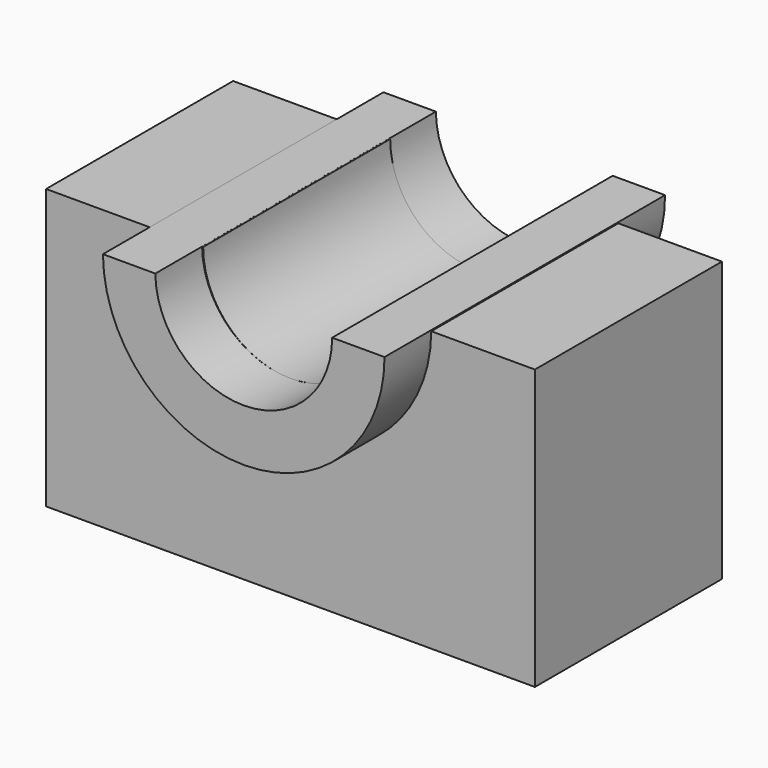
from build123d import *

# Parameters (mm, degrees)
F0_W     = 106.2181815505
F0_H     = 60.7290938497
F1_DEPTH = 25.4
F3_DEPTH = 38.1
F5_DEPTH = 152.4


with BuildPart() as f1:
    # F0 (on Front) → F1 (new body, symmetric)
    with BuildSketch(Plane.XZ):
        Rectangle(F0_W, F0_H)
    extrude(amount=F1_DEPTH, both=True)

    # F2 (on Front) → F3 (join, symmetric)
    with BuildSketch(Plane.XZ):
        with BuildLine():
            Line((-19.2100163435, 30.3730540806), (-30.5946469803, 30.3730540806))
            ThreePointArc((-30.5946469803, 30.3730540806), (0.110203176, 0.0001984736), (30.5954552536, 30.5934589507))
            Line((30.5954552536, 30.5934589507), (19.211303606, 30.5934589507))
            ThreePointArc((19.211303606, 30.5934589507), (0.1102043145, 11.3844677012), (-19.2100163435, 30.3730540806))
        make_face()
    extrude(amount=F3_DEPTH, both=True)

    # F4 (on face) → F5 (cut)
    with BuildSketch(Plane.XZ.offset(25.4)):
        with BuildLine():
            ThreePointArc((7.92e-08, 11.3841516089), (13.4211662655, 16.9433807153), (18.9803953159, 30.3645469248))
            Line((18.9803953159, 30.3645469248), (-18.9803953159, 30.3645469248))
            ThreePointArc((-18.9803953159, 30.3645469248), (-13.4211662095, 16.9433806594), (7.92e-08, 11.3841516089))
        make_face()
        with BuildLine():
            ThreePointArc((7.92e-08, 11.3841516089), (13.4211662655, 16.9433807153), (18.9803953159, 30.3645469248))
            Line((18.9803953159, 30.3645469248), (-18.9803953159, 30.3645469248))
            ThreePointArc((-18.9803953159, 30.3645469248), (-13.4211662095, 16.9433806594), (7.92e-08, 11.3841516089))
        make_face()
    extrude(amount=-F5_DEPTH, mode=Mode.SUBTRACT)


solid = f1.part
